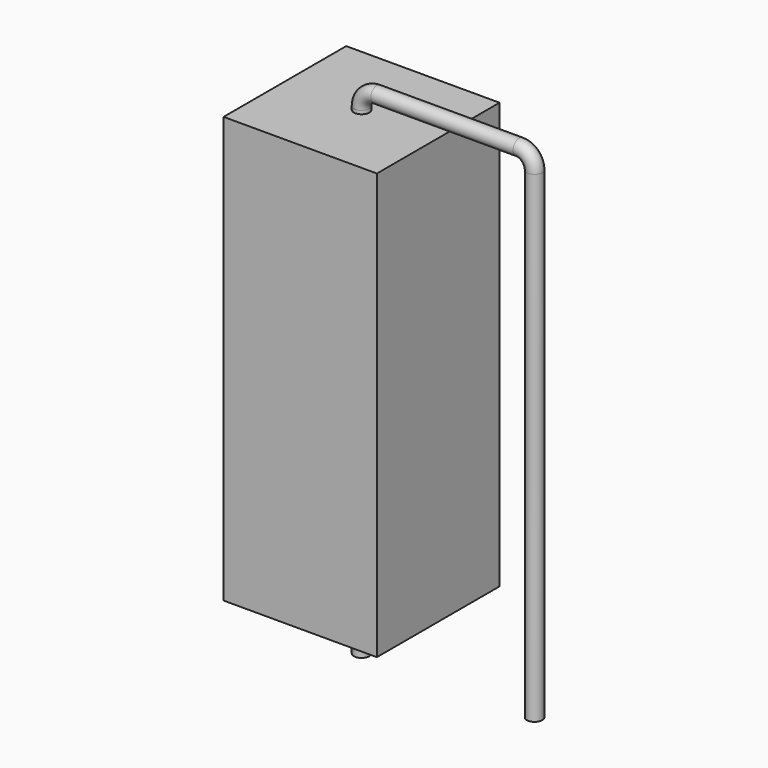
from build123d import *

# Parameters (mm, degrees)
SKETCH_R    = 0.45
SKETCH002_W = 9
SKETCH002_H = 25
PAD_DEPTH   = 4.5


with BuildPart() as sweep_body:
    # Sweep: sweep along a path in Sketch001
    with BuildLine(Plane.XZ) as sweep_path:
        Line((0, -3), (0, 25.3))
        ThreePointArc((0, 25.3), (0.263608, 25.9364), (0.900011, 26.2))
        Line((0.900011, 26.2), (9.26, 26.2))
        ThreePointArc((9.26, 26.2), (9.896396, 25.936396), (10.16, 25.3))
        Line((10.16, 25.3), (10.16, -3))
    # Sketch → Sweep (sweep)
    with BuildSketch(Plane.XY.offset(-2)):
        Circle(SKETCH_R)
    sweep(path=sweep_path.line)


with BuildPart() as pad:
    # Sketch002 → Pad (new body, symmetric)
    with BuildSketch(Plane.XZ):
        with Locations((0, 12.6)):
            Rectangle(SKETCH002_W, SKETCH002_H)
    extrude(amount=PAD_DEPTH, both=True)


solid = Compound([sweep_body.part, pad.part])
